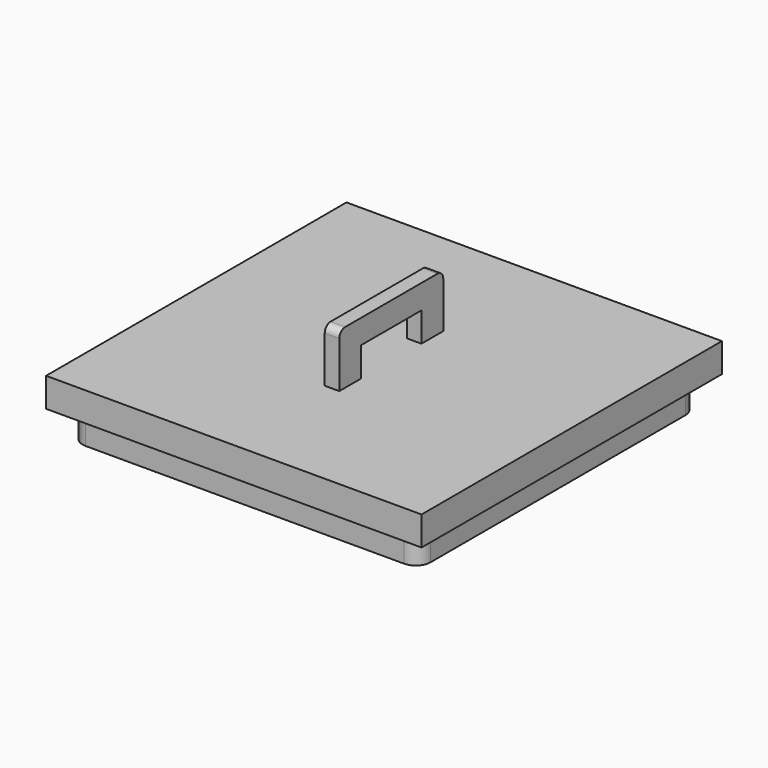
from build123d import *

# Parameters (mm, degrees)
F0_W     = 65.532
F0_H     = 65.532
F1_DEPTH = 5.08
F2_W     = 60.706
F2_H     = 60.706
F3_DEPTH = 10.16
F4_R     = 2.54
F6_DEPTH = 1.27
F8_R     = 1.27


with BuildPart() as f1:
    # F0 (on Top) → F1 (new body)
    with BuildSketch(Plane.XY):
        Rectangle(F0_W, F0_H)
    extrude(amount=-F1_DEPTH)

    # F2 (on Top) → F3 (join)
    with BuildSketch(Plane.XY):
        Rectangle(F2_W, F2_H)
    extrude(amount=-F3_DEPTH)

    # F4
    f4_edges = [f1.edges().sort_by_distance(p)[0] for p in [
        (-30.353, 30.353, -7.62),
        (30.353, 30.353, -7.62),
        (30.353, -30.353, -7.62),
        (-30.353, -30.353, -7.62),
    ]]
    fillet(f4_edges, radius=F4_R)

    # F5 (on Right) → F6 (join)
    with BuildSketch(Plane.YZ):
        Polygon((-11.3400844857, 9.3340231106), (-11.3400844857, 0), (-6.5773450769, 0), (-6.5773450769, 5.1228902303), (0, 5.1228902303), (0, 9.3340231106), align=None)
        Polygon((11.3400844857, 9.3340231106), (0, 9.3340231106), (0, 5.1228902303), (6.5773450769, 5.1228902303), (6.5773450769, 0), (11.3400844857, 0), align=None)
    extrude(amount=F6_DEPTH)

    # F7: F1 across plane


with BuildPart() as f1_1:
    add(f1.part)
    add(f1.part.mirror(Plane.YZ))

    # F8
    f8_edges = [f1_1.edges().sort_by_distance(p)[0] for p in [
        (0, -11.340084, 9.334023),
        (0, 11.340084, 9.334023),
    ]]
    fillet(f8_edges, radius=F8_R)


solid = f1_1.part
